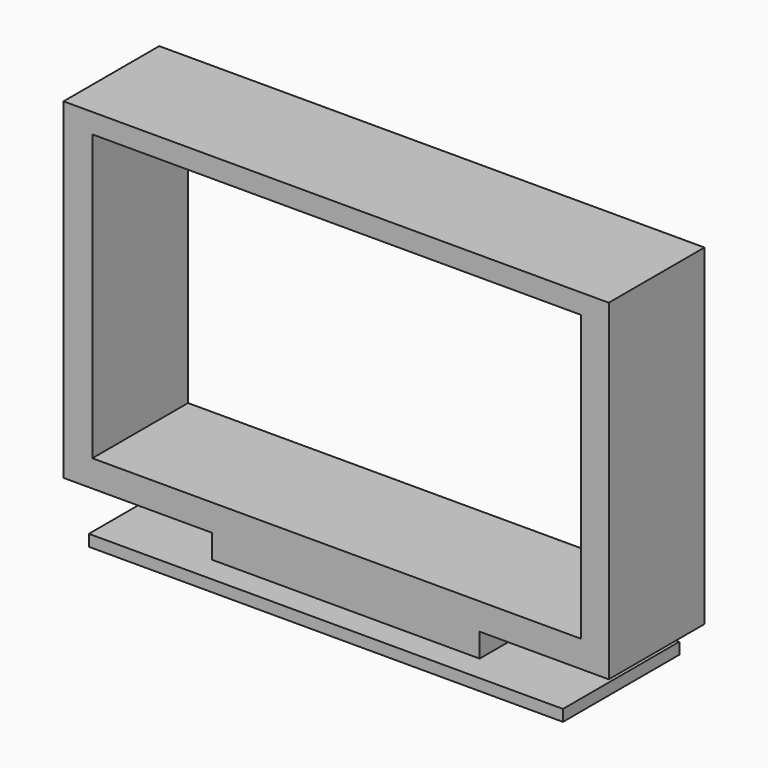
from build123d import *

# Parameters (mm, degrees)
F0_W     = 56.8619892001
F0_H     = 5.1695555449
F0_W_2   = 103.7985049188
F0_H_2   = 60.5490822345
F1_DEPTH = 25.4
F2_W     = 100.6826832891
F2_H     = 2.430818975
F3_DEPTH = 30.878353864


with BuildPart() as f1:
    # F0 (on Front) → F1 (new body)
    with BuildSketch(Plane.XZ):
        with Locations((1.7411597073, -31.6848233342)):
            Rectangle(F0_W, F0_H)
        Polygon((57.5896054506, 41.3098707795), (-58.2001060247, 41.3098707795), (-58.2001060247, -29.1000455618), (-26.6898348927, -29.1000455618), (30.1721543074, -29.1000455618), (57.5896054506, -29.1000455618), align=None)
        with Locations((-0.1843404025, 6.8429065868)):
            Rectangle(F0_W_2, F0_H_2, mode=Mode.SUBTRACT)
    extrude(amount=F1_DEPTH)

    # F2 (on Front) → F3 (join)
    with BuildSketch(Plane.XZ):
        with Locations((1.8978752196, -35.3595763445)):
            Rectangle(F2_W, F2_H)
    extrude(amount=F3_DEPTH)


solid = f1.part
